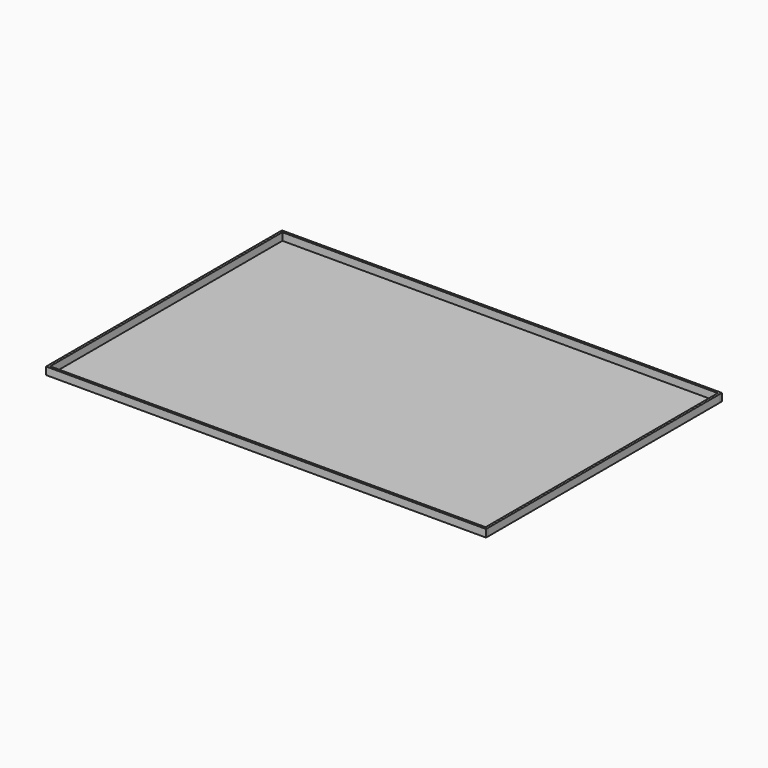
from build123d import *

# Parameters (mm, degrees)
F1_W     = 19.05
F1_H     = 2438.4
F2_DEPTH = 63.5
F3_W     = 19.05
F3_H     = 2438.4
F4_DEPTH = 63.5
F6_DEPTH = 63.5
F8_DEPTH = 63.5
F0_W     = 3657.6
F0_H     = 2438.4
F9_DEPTH = 0.254


with BuildPart() as f2:
    # F1 (on face) → F2 (new body)
    with BuildSketch(Plane.XY):
        with Locations((-1838.325, 0)):
            Rectangle(F1_W, F1_H)
    extrude(amount=F2_DEPTH)


with BuildPart() as f4:
    # F3 (on face) → F4 (new body)
    with BuildSketch(Plane.XY):
        with Locations((1838.325, 0)):
            Rectangle(F3_W, F3_H)
    extrude(amount=F4_DEPTH)


with BuildPart() as f6:
    # F5 (on face) → F6 (new body)
    with BuildSketch(Plane.XY):
        Polygon((-1847.85, 1238.25), (-1847.85, 1219.2), (-1828.8, 1219.2), (1828.8, 1219.2), (1847.85, 1219.2), (1847.85, 1238.25), align=None)
    extrude(amount=F6_DEPTH)


with BuildPart() as f8:
    # F7 (on face) → F8 (new body)
    with BuildSketch(Plane.XY):
        Polygon((-1828.8, -1219.2), (-1847.85, -1219.2), (-1847.85, -1238.25), (1847.85, -1238.25), (1847.85, -1219.2), (1828.8, -1219.2), align=None)
    extrude(amount=F8_DEPTH)


with BuildPart() as f9:
    # F0 (on Top) → F9 (new body)
    with BuildSketch(Plane.XY):
        Rectangle(F0_W, F0_H)
    extrude(amount=F9_DEPTH)


solid = Compound([f2.part, f4.part, f6.part, f8.part, f9.part])
